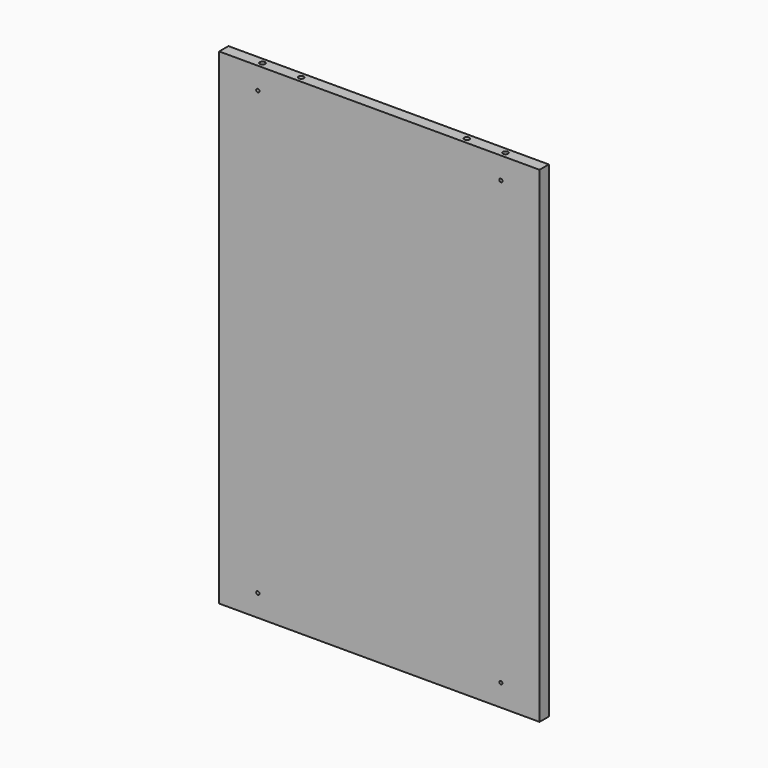
from build123d import *

# Parameters (mm, degrees)
F1_W           = 497
F1_H           = 754
F2_DEPTH       = 18
F5_D           = 8
F5_DEPTH       = 28
F5_TIP         = 2.4034424761
F5_ON_F4_D     = 8
F5_ON_F4_DEPTH = 28
F5_ON_F4_TIP   = 2.4034424761
F7_D           = 5
F7_DEPTH       = 34
F7_TIP         = 1.5021515476
F9_D           = 15
F9_DEPTH       = 15
F9_TIP         = 4.5064546427


with BuildPart() as f2:
    # F1 (on offset) → F2 (new body)
    with BuildSketch(Plane.XZ.offset(283)):
        with Locations((1.2963563204, 75.9517796117)):
            Rectangle(F1_W, F1_H)
    extrude(amount=F2_DEPTH)

    # F5
    with Locations(Plane.XY.offset(452.9517796117)):
        with Locations((-187.2036436796, -292), (-127.2036436796, -292), (129.7963563204, -292), (189.7963563204, -292)):
            Hole(F5_D / 2, depth=F5_DEPTH)
            with Locations((0, 0, -(F5_DEPTH + F5_TIP / 2))):  # 118° drill point
                Cone(0, F5_D / 2, F5_TIP, mode=Mode.SUBTRACT)

    # F5 on F4
    with Locations(Plane(origin=(0, 0, -301.0482203883), x_dir=(1, 0, 0), z_dir=(0, 0, -1))):
        with Locations((-187.2036436796, 292), (-127.2036436796, 292), (129.7963563204, 292), (189.7963563204, 292)):
            Hole(F5_ON_F4_D / 2, depth=F5_ON_F4_DEPTH)
            with Locations((0, 0, -(F5_ON_F4_DEPTH + F5_ON_F4_TIP / 2))):  # 118° drill point
                Cone(0, F5_ON_F4_D / 2, F5_ON_F4_TIP, mode=Mode.SUBTRACT)

    # F7
    with Locations(Plane(origin=(-247.2036436796, 0, 0), x_dir=(0, -1, 0), z_dir=(-1, 0, 0))):
        with Locations((292, 372.9517796117), (292, 75.9517796117), (292, -221.0482203883)):
            Hole(F7_D / 2, depth=F7_DEPTH)
            with Locations((0, 0, -(F7_DEPTH + F7_TIP / 2))):  # 118° drill point
                Cone(0, F7_D / 2, F7_TIP, mode=Mode.SUBTRACT)

    # F9
    with Locations(Plane(origin=(0, -283, 0), x_dir=(-1, 0, 0), z_dir=(0, 1, 0))):
        with Locations((-189.7963563204, 418.9517796117), (187.2036436796, 418.9517796117), (187.2036436796, -267.0482203883), (-189.7963563204, -267.0482203883)):
            Hole(F9_D / 2, depth=F9_DEPTH)
            with Locations((0, 0, -(F9_DEPTH + F9_TIP / 2))):  # 118° drill point
                Cone(0, F9_D / 2, F9_TIP, mode=Mode.SUBTRACT)


solid = f2.part
